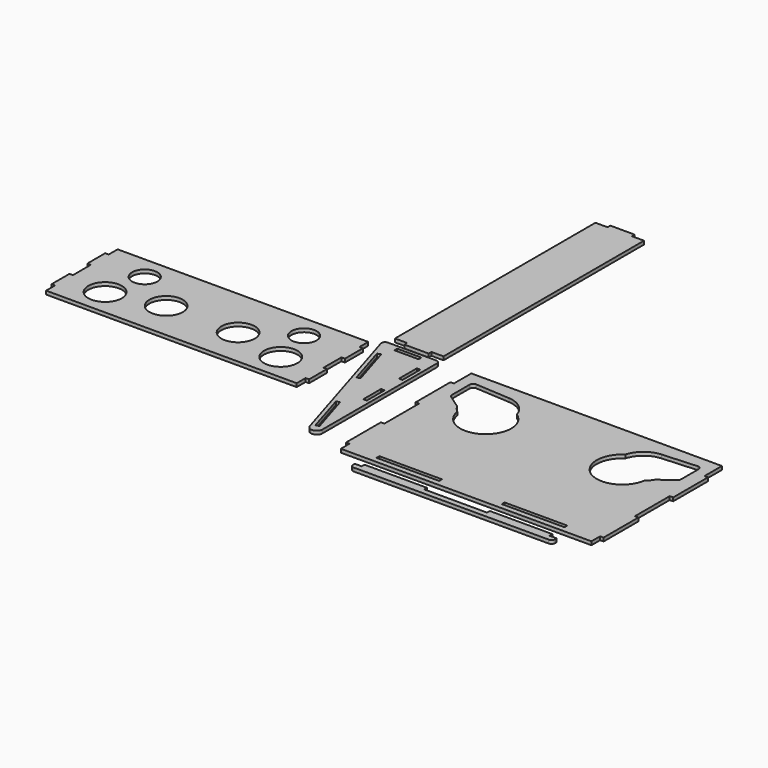
from build123d import *

# Parameters (mm, degrees)
F0_R     = 24.078416685
F0_R_2   = 18.0949458992
F0_R_3   = 24.0092305205
F1_DEPTH = 5
F0_W     = 90
F0_H     = 5.1
F0_W_2   = 34.879950267
F0_W_3   = 5.1
F0_H_2   = 32.1260135388


with BuildPart() as f1:
    # F0 (on Top) → F1 (new body)
    with BuildSketch(Plane.XY):
        Polygon((-347.0522761345, 117.3213401926), (-347.0522761345, 133.384346962), (-527.0522761345, 133.384346962), (-707.0522761345, 133.384346962), (-707.0522761345, 117.3213401926), (-712.0522761345, 117.3213401926), (-712.0522761345, 85.1953266538), (-707.0522761345, 85.1953266538), (-707.0522761345, 53.069313115), (-712.0522761345, 53.069313115), (-712.0522761345, 20.9432995762), (-707.0522761345, 20.9432995762), (-707.0522761345, 4.8802928068), (-347.0522761345, 4.8802928068), (-347.0522761345, 20.9432995762), (-342.0522761345, 20.9432995762), (-342.0522761345, 53.069313115), (-347.0522761345, 53.069313115), (-347.0522761345, 85.1953266538), (-342.0522761345, 85.1953266538), (-342.0522761345, 117.3213401926), align=None)
        with Locations((-653.1898975372, 43.5414463282)):
            Circle(F0_R, mode=Mode.SUBTRACT)
        with Locations((-641.4707303047, 100.069180131)):
            Circle(F0_R_2, mode=Mode.SUBTRACT)
        with Locations((-578.7387490273, 60.086145997)):
            Circle(F0_R_3, mode=Mode.SUBTRACT)
        with Locations((-400.9146547318, 43.5414463282)):
            Circle(F0_R, mode=Mode.SUBTRACT)
        with Locations((-475.3658032417, 60.086145997)):
            Circle(F0_R_3, mode=Mode.SUBTRACT)
        with Locations((-412.6338219643, 100.069180131)):
            Circle(F0_R_2, mode=Mode.SUBTRACT)
    extrude(amount=F1_DEPTH)


with BuildPart() as f1b:
    # F0 (on Top) → F1, piece 2 (new body)
    with BuildSketch(Plane.XY):
        Polygon((-328.8517546294, 518.6337685585), (-328.8517546294, 158.6337685585), (-311.4117794959, 158.6337685585), (-311.4117794959, 153.6337685585), (-293.9718043624, 153.6337685585), (-276.5318292289, 153.6337685585), (-276.5318292289, 158.6337685585), (-259.0918540955, 158.6337685585), (-259.0918540955, 518.6337685585), (-276.5318292289, 518.6337685585), (-276.5318292289, 523.6337685585), (-293.9718043624, 523.6337685585), (-311.4117794959, 523.6337685585), (-311.4117794959, 518.6337685585), align=None)
    extrude(amount=F1_DEPTH)


with BuildPart() as f1c:
    # F0 (on Top) → F1, piece 3 (new body)
    with BuildSketch(Plane.XY):
        Polygon((-208.8826172801, 114.5909994094), (-213.8826172801, 114.5909994094), (-213.8826172801, 52.0909994094), (-208.8826172801, 52.0909994094), (-208.8826172801, 20.8409994094), (-208.8826172801, -10.4090005906), (-213.8826172801, -10.4090005906), (-213.8826172801, -72.9090005906), (-208.8826172801, -72.9090005906), (-208.8826172801, -80.7215005906), (-208.8826172801, -88.5340005906), (151.1173827199, -88.5340005906), (151.1173827199, -72.9090005906), (156.1173827199, -72.9090005906), (156.1173827199, -10.4090005906), (151.1173827199, -10.4090005906), (151.1173827199, 20.8409994094), (151.1173827199, 52.0909994094), (156.1173827199, 52.0909994094), (156.1173827199, 114.5909994094), (151.1173827199, 114.5909994094), (151.1173827199, 145.8409994094), (-208.8826172801, 145.8409994094), align=None)
        Polygon((-118.8826172801, -80.7215005906), (-163.8826172801, -80.7215005906), (-163.8826172801, -75.6215005906), (-73.8826172801, -75.6215005906), (-73.8826172801, -80.7215005906), align=None, mode=Mode.SUBTRACT)
        with Locations((61.1173827199, -78.1715005906)):
            Rectangle(F0_W, F0_H, mode=Mode.SUBTRACT)
        with BuildLine():
            ThreePointArc((-163.1064418044, 63.395986563), (-167.6908016432, 68.0201306029), (-171.3421346171, 73.4114969184))
            Line((-171.3421346171, 73.4114969184), (-191.2022215393, 87.3300559765))
            ThreePointArc((-191.2022215393, 87.3300559765), (-192.7681640584, 89.1168009498), (-193.3326274157, 91.42461695))
            Line((-193.3326274157, 91.42461695), (-193.3326274157, 123.4673008492))
            ThreePointArc((-193.3326274157, 123.4673008492), (-191.7557127114, 127.1118155025), (-188.0196325923, 128.4574946571))
            Line((-188.0196325923, 128.4574946571), (-138.3826444135, 125.3441646052))
            ThreePointArc((-138.3826444135, 125.3441646052), (-118.5506318626, 117.6391622671), (-106.8129221919, 99.8936852508))
            ThreePointArc((-106.8129221919, 99.8936852508), (-107.0088017165, 38.5338046943), (-163.1064418044, 63.395986563))
        make_face(mode=Mode.SUBTRACT)
        with BuildLine():
            Line((135.5673928555, 123.4673008492), (135.5673928555, 91.42461695))
            ThreePointArc((135.5673928555, 91.42461695), (135.0029294982, 89.1168009498), (133.4369869791, 87.3300559765))
            Line((133.4369869791, 87.3300559765), (113.5769000569, 73.4114969184))
            ThreePointArc((113.5769000569, 73.4114969184), (109.9255670831, 68.0201306029), (105.3412072442, 63.395986563))
            ThreePointArc((105.3412072442, 63.395986563), (49.2435671563, 38.5338046943), (49.0476876317, 99.8936852508))
            ThreePointArc((49.0476876317, 99.8936852508), (60.7853973024, 117.6391622671), (80.6174098533, 125.3441646052))
            Line((80.6174098533, 125.3441646052), (130.2543980321, 128.4574946571))
            ThreePointArc((130.2543980321, 128.4574946571), (133.9904781512, 127.1118155025), (135.5673928555, 123.4673008492))
        make_face(mode=Mode.SUBTRACT)
    extrude(amount=F1_DEPTH)


with BuildPart() as f1d:
    # F0 (on Top) → F1, piece 4 (new body)
    with BuildSketch(Plane.XY):
        with BuildLine():
            Line((-326.4778962759, 115.9542165736), (-270.5638649794, -67.094277193))
            ThreePointArc((-270.5638649794, -67.094277193), (-261.9191921392, -72.9817175644), (-254.2420667969, -65.8786147833))
            Line((-254.2420667969, -65.8786147833), (-254.2420667969, 140.8409994094))
            ThreePointArc((-254.2420667969, 140.8409994094), (-255.7065328909, 144.3765333153), (-259.2420667969, 145.8409994094))
            Line((-259.2420667969, 145.8409994094), (-328.8517546294, 145.8409994094))
            ThreePointArc((-328.8517546294, 145.8409994094), (-332.8706710482, 143.8156104459), (-333.6336398831, 139.3803237369))
            Line((-333.6336398831, 139.3803237369), (-326.4778962759, 115.9542165736))
        make_face()
        Polygon((-303.4255201257, 57.6491810925), (-321.683966032, 117.422746764), (-316.8064430732, 118.91263595), (-298.5479971669, 59.1390702785), align=None, mode=Mode.SUBTRACT)
        with Locations((-293.9718043624, 138.2909994094)):
            Rectangle(F0_W_2, F0_H, mode=Mode.SUBTRACT)
        Polygon((-266.8074888299, -61.8670286172), (-285.0996475577, -2.1037712673), (-280.2229657579, -0.6111311151), (-261.9308070301, -60.3743884651), align=None, mode=Mode.SUBTRACT)
        with Locations((-261.7920667969, 37.0063063456)):
            Rectangle(F0_W_3, F0_H_2, mode=Mode.SUBTRACT)
        Polygon((-264.3420667969, 117.3213401926), (-259.2420667969, 117.3213401926), (-259.2420667969, 85.1953266538), (-264.3420667969, 85.1953266538), (-264.3420667969, 101.2583334232), align=None, mode=Mode.SUBTRACT)
    extrude(amount=F1_DEPTH)


with BuildPart() as f1e:
    # F0 (on Top) → F1, piece 5 (new body)
    with BuildSketch(Plane.XY):
        with BuildLine():
            Line((-73.8826172801, -102.2065058351), (-163.8826172801, -102.2065058351))
            Line((-163.8826172801, -102.2065058351), (-163.8826172801, -107.2065058351))
            Line((-163.8826172801, -107.2065058351), (-173.8826172801, -107.2065058351))
            Line((-173.8826172801, -107.2065058351), (-173.8826172801, -110.2065058351))
            ThreePointArc((-173.8826172801, -110.2065058351), (-172.418151186, -113.742039741), (-168.8826172801, -115.2065058351))
            Line((-168.8826172801, -115.2065058351), (111.1173827199, -115.2065058351))
            ThreePointArc((111.1173827199, -115.2065058351), (114.6529166258, -113.742039741), (116.1173827199, -110.2065058351))
            Line((116.1173827199, -110.2065058351), (116.1173827199, -107.2065058351))
            Line((116.1173827199, -107.2065058351), (106.1173827199, -107.2065058351))
            Line((106.1173827199, -107.2065058351), (106.1173827199, -102.2065058351))
            Line((106.1173827199, -102.2065058351), (16.1173827199, -102.2065058351))
            Line((16.1173827199, -102.2065058351), (16.1173827199, -107.2065058351))
            Line((16.1173827199, -107.2065058351), (-73.8826172801, -107.2065058351))
            Line((-73.8826172801, -107.2065058351), (-73.8826172801, -102.2065058351))
        make_face()
    extrude(amount=F1_DEPTH)


solid = Compound([f1.part, f1b.part, f1c.part, f1d.part, f1e.part])
